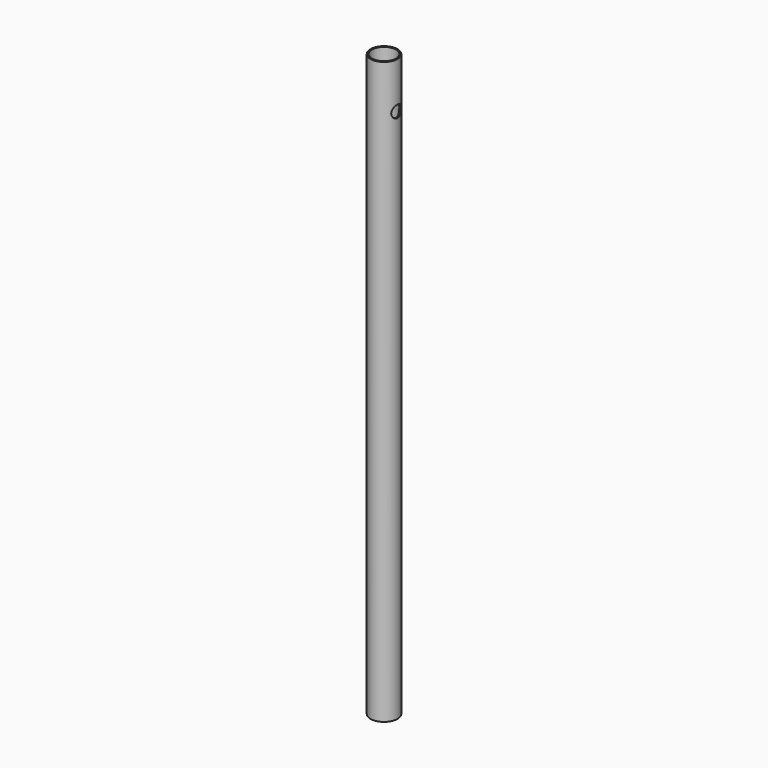
from build123d import *

# Parameters (mm, degrees)
F0_R     = 11.15
F0_R_2   = 9.95
F1_DEPTH = 480
F2_R     = 5
F3_DEPTH = 11.151


with BuildPart() as f1:
    # F0 (on Top) → F1 (new body)
    with BuildSketch(Plane.XY):
        Circle(F0_R)
        Circle(F0_R_2, mode=Mode.SUBTRACT)
    extrude(amount=F1_DEPTH)

    # F2 (on Right) → F3 (cut, through all)
    with BuildSketch(Plane.YZ):
        with Locations((0, 442)):
            Circle(F2_R)
    extrude(amount=F3_DEPTH, mode=Mode.SUBTRACT)


solid = f1.part
